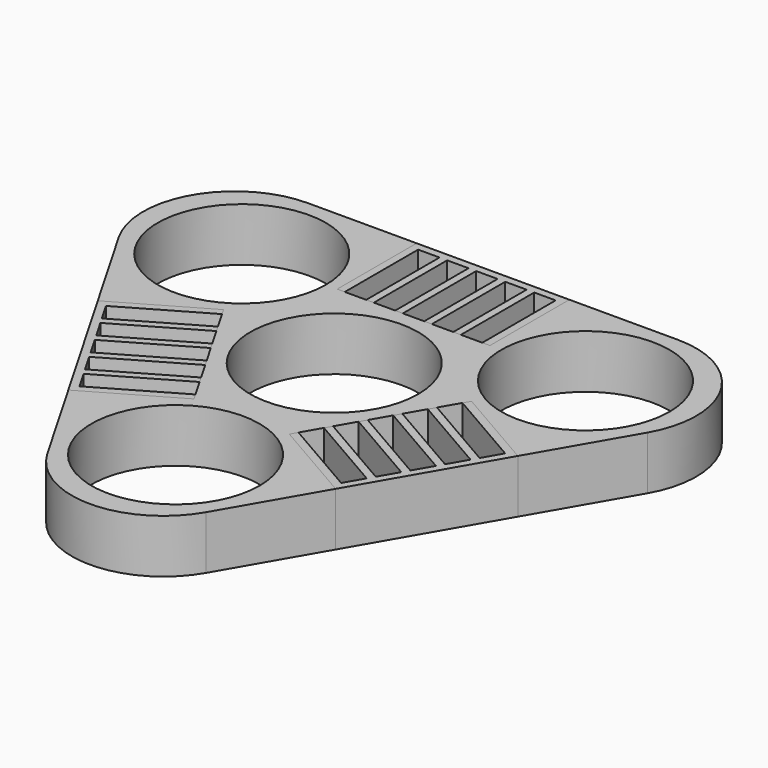
from build123d import *

# Parameters (mm, degrees)
F0_R     = 11
F1_DEPTH = 7
F2_R     = 12
F3_W     = 20
F3_H     = 13.0009985535
F4_DEPTH = 25
F5_W     = 1
F5_H     = 12.0009985535
F5_H_2   = 1
F5_W_2   = 0.9
F6_DEPTH = 7
F8_COUNT = 3


with BuildPart() as f1:
    # F0 (on Top) → F1 (new body)
    with BuildSketch(Plane.XY):
        Polygon((45, 25.9807621135), (-45, 25.9807621135), (0, -51.9615242271), align=None)
        with Locations((0, -25.9807621135)):
            Circle(F0_R, mode=Mode.SUBTRACT)
        with Locations((-22.5, 12.9903810568)):
            Circle(F0_R, mode=Mode.SUBTRACT)
        Circle(F0_R, mode=Mode.SUBTRACT)
        with Locations((22.5, 12.9903810568)):
            Circle(F0_R, mode=Mode.SUBTRACT)
    extrude(amount=F1_DEPTH)

    # F2
    f2_edges = [f1.edges().sort_by_distance(p)[0] for p in [
        (-45, 25.980762, 3.5),
        (0, -51.961524, 3.5),
        (45, 25.980762, 3.5),
    ]]
    fillet(f2_edges, radius=F2_R)

    # F3 (on face) → F4 (cut)
    with BuildSketch(Plane.XY.offset(7)):
        with Locations((0, 19.4802628368)):
            Rectangle(F3_W, F3_H)
        Polygon((17.5, -21.6506350946), (27.5, -4.3301270189), (16.2408049781, 2.1703722578), (6.2408049781, -15.1501358178), align=None)
        Polygon((-16.2408049781, 2.1703722578), (-27.5, -4.3301270189), (-17.5, -21.6506350946), (-6.2408049781, -15.1501358178), align=None)
    extrude(amount=-F4_DEPTH, mode=Mode.SUBTRACT)


with BuildPart() as f6:
    # F5 (on Top) → F6 (new body)
    with BuildSketch(Plane.XY):
        with Locations((-9.5, 18.9802628368)):
            Rectangle(F5_W, F5_H)
        with Locations((-5.7, 18.9802628368)):
            Rectangle(F5_W, F5_H)
        with Locations((-1.9, 18.9802628368)):
            Rectangle(F5_W, F5_H)
        with Locations((1.9, 18.9802628368)):
            Rectangle(F5_W, F5_H)
        with Locations((5.7, 18.9802628368)):
            Rectangle(F5_W, F5_H)
        with Locations((9.5, 18.9802628368)):
            Rectangle(F5_W, F5_H)
        with Locations((9.5, 25.4807621135)):
            Rectangle(F5_W, F5_H_2)
        with Locations((8.55, 25.4807621135)):
            Rectangle(F5_W_2, F5_H_2)
        with Locations((7.6, 25.4807621135)):
            Rectangle(F5_W, F5_H_2)
        with Locations((6.65, 25.4807621135)):
            Rectangle(F5_W_2, F5_H_2)
        with Locations((5.7, 25.4807621135)):
            Rectangle(F5_W, F5_H_2)
        with Locations((4.75, 25.4807621135)):
            Rectangle(F5_W_2, F5_H_2)
        with Locations((3.8, 25.4807621135)):
            Rectangle(F5_W, F5_H_2)
        with Locations((2.85, 25.4807621135)):
            Rectangle(F5_W_2, F5_H_2)
        with Locations((1.9, 25.4807621135)):
            Rectangle(F5_W, F5_H_2)
        with Locations((0.95, 25.4807621135)):
            Rectangle(F5_W_2, F5_H_2)
        with Locations((0, 25.4807621135)):
            Rectangle(F5_W, F5_H_2)
        with Locations((-0.95, 25.4807621135)):
            Rectangle(F5_W_2, F5_H_2)
        with Locations((-1.9, 25.4807621135)):
            Rectangle(F5_W, F5_H_2)
        with Locations((-2.85, 25.4807621135)):
            Rectangle(F5_W_2, F5_H_2)
        with Locations((-3.8, 25.4807621135)):
            Rectangle(F5_W, F5_H_2)
        with Locations((-4.75, 25.4807621135)):
            Rectangle(F5_W_2, F5_H_2)
        with Locations((-5.7, 25.4807621135)):
            Rectangle(F5_W, F5_H_2)
        with Locations((-6.65, 25.4807621135)):
            Rectangle(F5_W_2, F5_H_2)
        with Locations((-7.6, 25.4807621135)):
            Rectangle(F5_W, F5_H_2)
        with Locations((-8.55, 25.4807621135)):
            Rectangle(F5_W_2, F5_H_2)
        with Locations((-9.5, 25.4807621135)):
            Rectangle(F5_W, F5_H_2)
    extrude(amount=F6_DEPTH)


with BuildPart() as f8_1:
    # F8: instance of F6
    add(f6.part.rotate(Axis((0, 0, 7.2841946967), (0, 0, 1)), 1 * 360 / F8_COUNT))


with BuildPart() as f8_2:
    # F8: instance of F6
    add(f6.part.rotate(Axis((0, 0, 7.2841946967), (0, 0, 1)), 2 * 360 / F8_COUNT))


solid = Compound([f1.part, f6.part, f8_1.part, f8_2.part])
